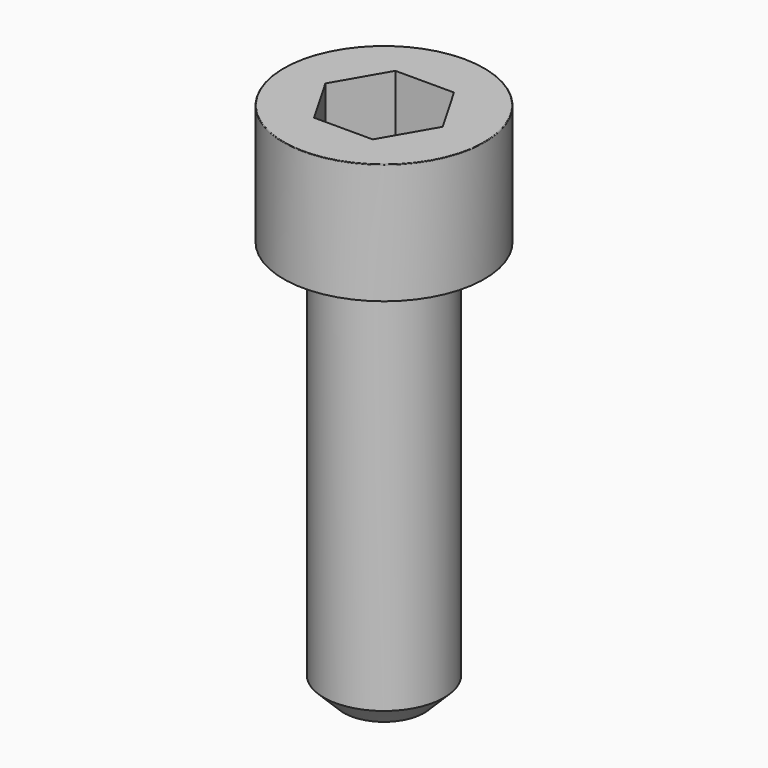
from build123d import *

# Parameters (mm, degrees)
POCKET_DEPTH = 5.06


with BuildPart() as part:
    # Sketch → Revolve (revolve)
    with BuildSketch(Plane.YZ):
        with BuildLine():
            Line((2.999, 0), (5, 0))
            Line((5, 0), (5, 5.97229))
            ThreePointArc((5, 5.97229), (4.991884, 5.991884), (4.97229, 6))
            Line((4.97229, 6), (0, 6))
            Line((0, -20), (0, 6))
            Line((2, -20), (0, -20))
            Line((3, -19), (2, -20))
            Line((3, -0.2), (3, -19))
            Line((2.999, 0), (3, -0.2))
        make_face()
    revolve(axis=Axis((0, 0, 0), (0, 0, 1)))

    # Sketch001 → Pocket (cut)
    with BuildSketch(Plane.XY.offset(6)):
        Polygon((2.921392, 0), (1.460696, 2.53), (-1.460696, 2.53), (-2.921392, 0), (-1.460696, -2.53), (1.460696, -2.53), align=None)
    extrude(amount=-POCKET_DEPTH, mode=Mode.SUBTRACT)


solid = part.part
